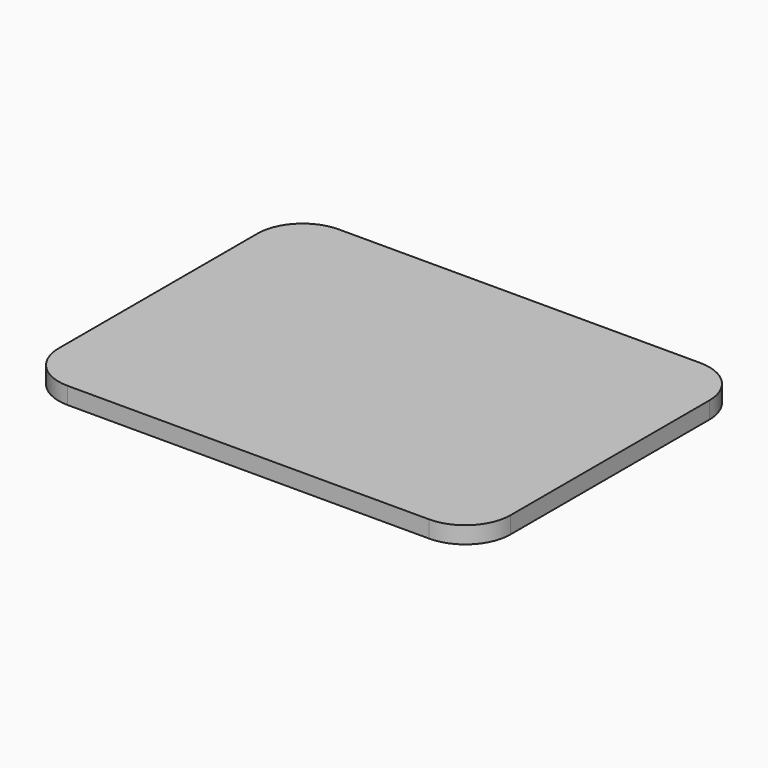
from build123d import *

# Parameters (mm, degrees)
F1_DEPTH = 3


with BuildPart() as f1:
    # F0 (on Top) → F1 (new body)
    with BuildSketch(Plane.XY):
        with BuildLine():
            Line((32, 30), (-32, 30))
            ThreePointArc((-32, 30), (-37.656854, 27.656854), (-40, 22))
            Line((-40, 22), (-40, -22))
            ThreePointArc((-40, -22), (-37.656854, -27.656854), (-32, -30))
            Line((-32, -30), (32, -30))
            ThreePointArc((32, -30), (37.656854, -27.656854), (40, -22))
            Line((40, -22), (40, 22))
            ThreePointArc((40, 22), (37.656854, 27.656854), (32, 30))
        make_face()
        with BuildLine():
            Line((32, 30), (-32, 30))
            ThreePointArc((-32, 30), (-37.656854, 27.656854), (-40, 22))
            Line((-40, 22), (-40, -22))
            ThreePointArc((-40, -22), (-37.656854, -27.656854), (-32, -30))
            Line((-32, -30), (32, -30))
            ThreePointArc((32, -30), (37.656854, -27.656854), (40, -22))
            Line((40, -22), (40, 22))
            ThreePointArc((40, 22), (37.656854, 27.656854), (32, 30))
        make_face()
    extrude(amount=F1_DEPTH)


solid = f1.part
